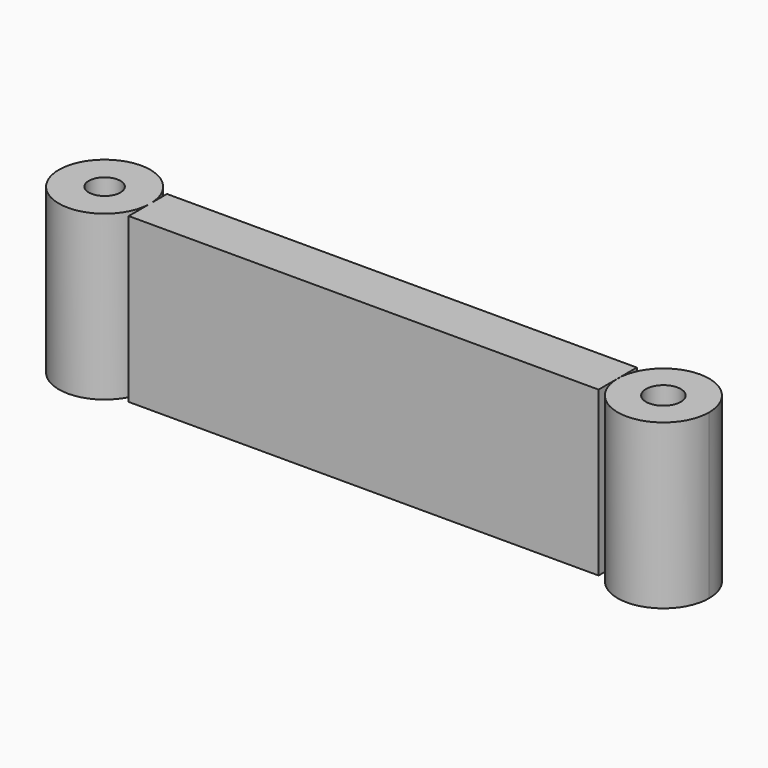
from build123d import *

# Parameters (mm, degrees)
F0_W     = 71.764112
F0_H     = 3.651714
F1_DEPTH = 3
F0_R     = 2.661474
F0_R_2   = 2.418317
F2_DEPTH = 25


with BuildPart() as f1:
    # F0 (on Top) → F1 (new body)
    with BuildSketch(Plane.XY):
        with Locations((8.891128, 6.587157)):
            Rectangle(F0_W, F0_H)
        Polygon((44.773184, 12.064728), (-26.990928, 12.064728), (-26.990928, 8.889324), (-26.990928, 8.413014), (44.773184, 8.413014), align=None)
        with Locations((8.891128, 6.587157)):
            Rectangle(F0_W, F0_H)
    extrude(amount=F1_DEPTH)

    # F0 (on Top) → F2 (join)
    with BuildSketch(Plane.XY):
        with BuildLine():
            ThreePointArc((58.744967, 8.413014), (51.759075, 15.398906), (44.773184, 8.413014))
            ThreePointArc((44.773184, 8.413014), (51.759075, 1.427122), (58.744967, 8.413014))
        make_face()
        with Locations((51.759075, 8.413014)):
            Circle(F0_R, mode=Mode.SUBTRACT)
        Polygon((44.773184, 12.064728), (-26.990928, 12.064728), (-26.990928, 8.889324), (-26.990928, 8.413014), (44.773184, 8.413014), align=None)
        with BuildLine():
            ThreePointArc((-27.007184, 8.413014), (-26.994993, 8.65103), (-26.990928, 8.889324))
            ThreePointArc((-26.990928, 8.889324), (-40.958638, 9.127618), (-27.007184, 8.413014))
        make_face()
        with Locations((-33.976816, 8.889324)):
            Circle(F0_R_2, mode=Mode.SUBTRACT)
        with BuildLine():
            Line((-26.990928, 8.413014), (-26.990928, 8.889324))
            ThreePointArc((-26.990928, 8.889324), (-26.994993, 8.65103), (-27.007184, 8.413014))
            Line((-27.007184, 8.413014), (-26.990928, 8.413014))
        make_face()
        with Locations((8.891128, 6.587157)):
            Rectangle(F0_W, F0_H)
    extrude(amount=F2_DEPTH)


solid = f1.part
